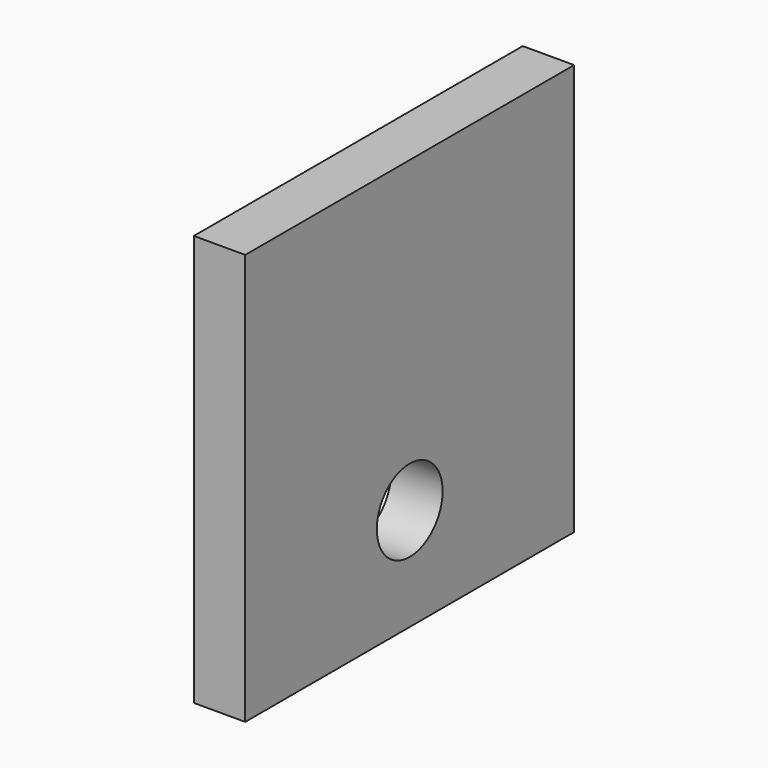
from build123d import *

# Parameters (mm, degrees)
F0_W     = 10
F0_H     = 80
F1_DEPTH = 80
F2_R     = 8
F3_DEPTH = 10.001


with BuildPart() as f1:
    # F0 (on Front) → F1 (new body)
    with BuildSketch(Plane.XZ):
        Rectangle(F0_W, F0_H)
    extrude(amount=-F1_DEPTH)

    # F2 (on face) → F3 (cut, through all)
    with BuildSketch(Plane.YZ.offset(5)):
        with Locations((40, -20)):
            Circle(F2_R)
    extrude(amount=-F3_DEPTH, mode=Mode.SUBTRACT)


solid = f1.part
